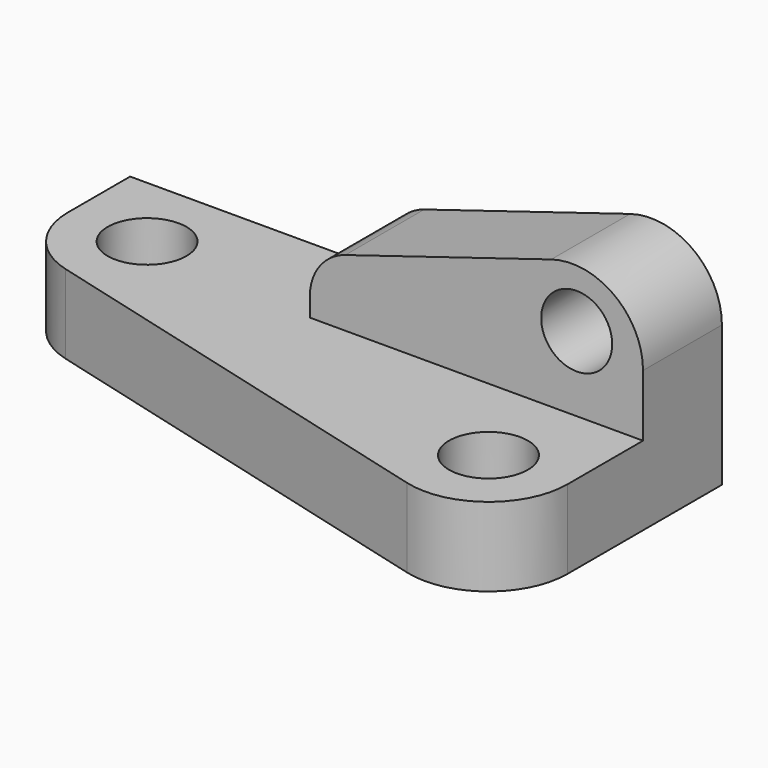
from build123d import *

# Parameters (mm, degrees)
F0_R     = 10
F1_DEPTH = 20
F2_R     = 9
F3_DEPTH = 25


with BuildPart() as f1:
    # F0 (on Top) → F1 (new body)
    with BuildSketch(Plane.XY):
        with BuildLine():
            Line((0, -48.967767), (0, 0))
            Line((0, 0), (-150, 0))
            Line((-150, 0), (-150, -19.634434))
            ThreePointArc((-150, -19.634434), (-145.859777, -31.819157), (-135.153253, -38.959133))
            Line((-135.153253, -38.959133), (-25.153253, -68.292466))
            ThreePointArc((-25.153253, -68.292466), (-7.815277, -64.827544), (0, -48.967767))
        make_face()
        with Locations((-20, -48.967767)):
            Circle(F0_R, mode=Mode.SUBTRACT)
        with Locations((-130, -19.634434)):
            Circle(F0_R, mode=Mode.SUBTRACT)
    extrude(amount=F1_DEPTH)

    # F2 (on Front) → F3 (join)
    with BuildSketch(Plane.XZ):
        with BuildLine():
            Line((-84.449692, 0), (0, 0))
            Line((0, 0), (0, 35.662658))
            ThreePointArc((0, 35.662658), (-7.296527, 50.134551), (-23.270631, 52.873714))
            Line((-23.270631, 52.873714), (-75.468414, 36.888917))
            ThreePointArc((-75.468414, 36.888917), (-81.960416, 32.297455), (-84.449692, 24.745561))
            Line((-84.449692, 24.745561), (-84.449692, 0))
        make_face()
        with Locations((-16.808609, 38.975652)):
            Circle(F2_R, mode=Mode.SUBTRACT)
    extrude(amount=F3_DEPTH)


solid = f1.part
